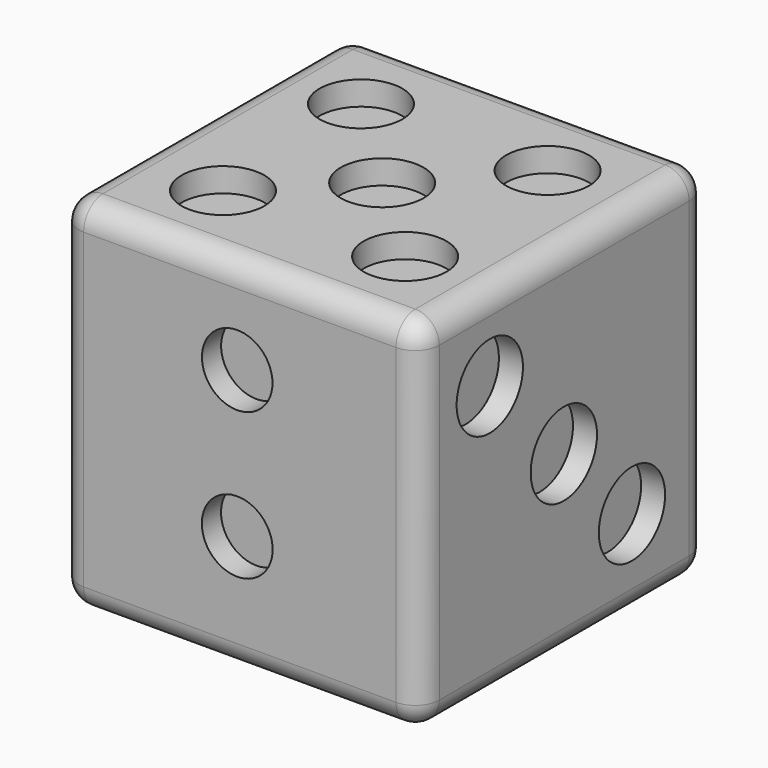
from build123d import *

# Parameters (mm, degrees)
F0_W      = 15
F0_H      = 15
F0_R      = 2.6227188779
F1_DEPTH  = 15
F2_R      = 1.4735683416
F2_R_2    = 1.4685130451
F8_DEPTH  = 1
F5_R      = 1.9757699967
F9_DEPTH  = 1
F4_R      = 1.7246799927
F10_DEPTH = 1
F3_R      = 1.7246799927
F11_DEPTH = 1
F7_R      = 1.7246799927
F12_DEPTH = 1
F6_R      = 1.7246799927
F13_DEPTH = 1
F14_R     = 1


with BuildPart() as f1:
    # F0 (on Top) → F1 (new body)
    with BuildSketch(Plane.XY):
        with Locations((7.5, 7.5)):
            Rectangle(F0_W, F0_H)
        with Locations((7.4908491224, 7.7657136135)):
            Circle(F0_R, mode=Mode.SUBTRACT)
        with Locations((7.4908491224, 7.7657136135)):
            Circle(F0_R)
    extrude(amount=F1_DEPTH)

    # F2 (on face) → F8 (cut)
    with BuildSketch(Plane.XZ):
        with Locations((7.3902518488, 4.9254414625)):
            Circle(F2_R)
        with Locations((7.3902518488, 11.0231023282)):
            Circle(F2_R_2)
    extrude(amount=-F8_DEPTH, mode=Mode.SUBTRACT)

    # F5 (on face) → F9 (cut)
    with BuildSketch(Plane(origin=(0, 0, 0), x_dir=(0, -1, 0), z_dir=(-1, 0, 0))):
        with Locations((-7.5194058008, 7.6636224985)):
            Circle(F5_R)
    extrude(amount=-F9_DEPTH, mode=Mode.SUBTRACT)

    # F4 (on face) → F10 (cut)
    with BuildSketch(Plane(origin=(0, 15, 0), x_dir=(-1, 0, 0), z_dir=(0, 1, 0))):
        with Locations((-4.5185647905, 4.4170920737)):
            Circle(F4_R)
        with Locations((-10.6097254902, 10.1456837729)):
            Circle(F4_R)
        with Locations((-10.4646971449, 4.4170920737)):
            Circle(F4_R)
        with Locations((-4.7361063771, 10.0731700659)):
            Circle(F4_R)
    extrude(amount=-F10_DEPTH, mode=Mode.SUBTRACT)

    # F3 (on face) → F11 (cut)
    with BuildSketch(Plane.YZ.offset(15)):
        with Locations((7.4821650051, 7.3897475377)):
            Circle(F3_R)
        with Locations((3.6290215794, 11.4373583347)):
            Circle(F3_R)
        with Locations((11.0254311003, 3.7508946843)):
            Circle(F3_R)
    extrude(amount=-F11_DEPTH, mode=Mode.SUBTRACT)

    # F7 (on face) → F12 (cut)
    with BuildSketch(Plane(origin=(0, 0, 0), x_dir=(1, 0, 0), z_dir=(0, 0, -1))):
        with Locations((5.2725449204, -7.665055804)):
            Circle(F7_R)
        with Locations((5.2115684375, -3.2747397199)):
            Circle(F7_R)
        with Locations((9.9677434191, -12.0858596638)):
            Circle(F7_R)
        with Locations((9.7848139703, -7.7260322869)):
            Circle(F7_R)
        with Locations((9.7848139703, -3.1527867541)):
            Circle(F7_R)
        with Locations((5.2115684375, -11.9943944737)):
            Circle(F7_R)
    extrude(amount=-F12_DEPTH, mode=Mode.SUBTRACT)

    # F6 (on face) → F13 (cut)
    with BuildSketch(Plane.XY.offset(15)):
        with Locations((7.6069538482, 7.2701666504)):
            Circle(F6_R)
        with Locations((11.4286709577, 3.6876818631)):
            Circle(F6_R)
        with Locations((11.2624969333, 11.3061647862)):
            Circle(F6_R)
        with Locations((3.5987806041, 11.1777177081)):
            Circle(F6_R)
        with Locations((3.9099473506, 3.6097485572)):
            Circle(F6_R)
    extrude(amount=-F13_DEPTH, mode=Mode.SUBTRACT)

    # F14
    f14_edges = [f1.edges().sort_by_distance(p)[0] for p in [
        (15, 7.5, 0),
        (7.5, 15, 0),
        (15, 15, 7.5),
        (7.5, 0, 0),
        (0, 7.5, 0),
        (0, 15, 7.5),
        (0, 7.5, 15),
        (0, 0, 7.5),
        (7.5, 0, 15),
        (15, 0, 7.5),
        (15, 7.5, 15),
        (7.5, 15, 15),
    ]]
    fillet(f14_edges, radius=F14_R)


solid = f1.part
